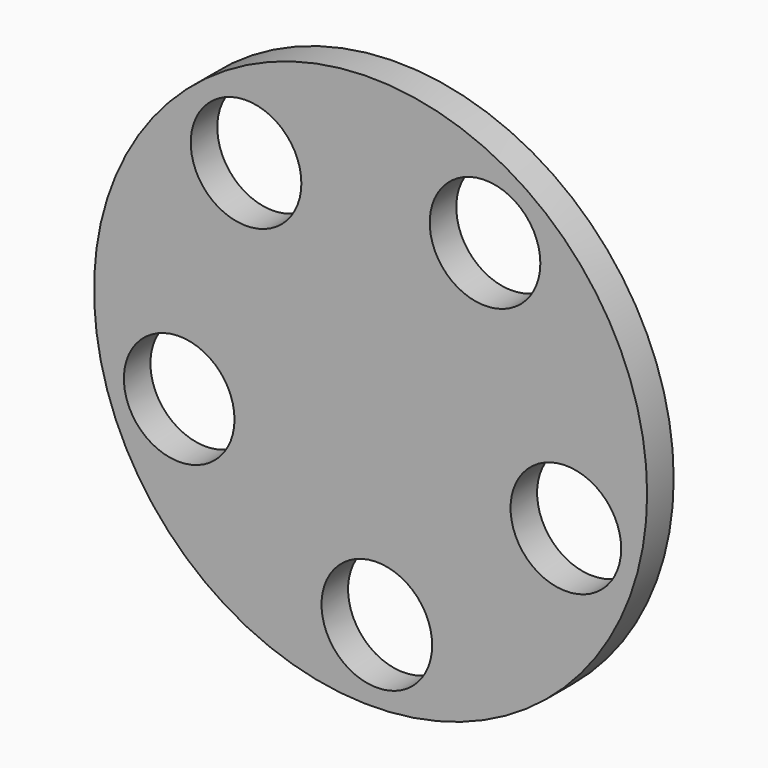
from build123d import *

# Parameters (mm, degrees)
F0_R     = 63.5
F1_DEPTH = 7.62
F2_R     = 12.7
F3_DEPTH = 7.621


with BuildPart() as f1:
    # F0 (on Front) → F1 (new body)
    with BuildSketch(Plane.XZ):
        Circle(F0_R)
    extrude(amount=F1_DEPTH)

    # F2 (on Front) → F3 (cut, through all)
    with BuildSketch(Plane.XZ):
        with Locations((-28.595986, 36.92016)):
            Circle(F2_R)
        with Locations((-43.949804, -15.787442)):
            Circle(F2_R)
        with Locations((1.433513, -46.677336)):
            Circle(F2_R)
        with Locations((44.835764, -13.060738)):
            Circle(F2_R)
        with Locations((26.276513, 38.605356)):
            Circle(F2_R)
    extrude(amount=F3_DEPTH, mode=Mode.SUBTRACT)


solid = f1.part
